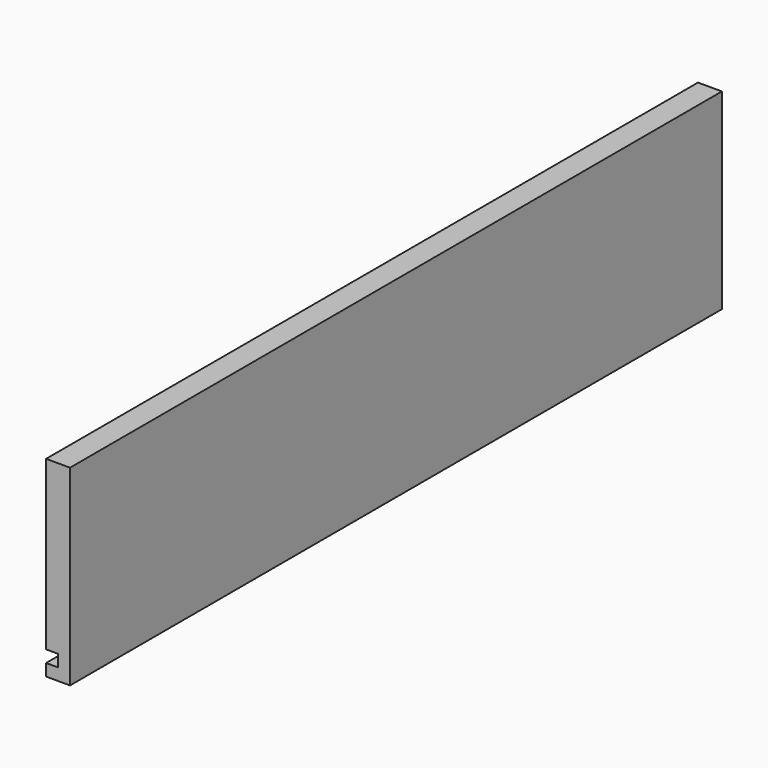
from build123d import *

# Parameters (mm, degrees)
F0_W          = 431.8
F0_H          = 101.6
F1_DEPTH      = 6.35
F2_W          = 6.35
F2_H          = 6.35
F3_DEPTH      = 215.901
F3_DEPTH_BACK = 215.901


with BuildPart() as f1:
    # F0 (on Right) → F1 (new body, symmetric)
    with BuildSketch(Plane.YZ):
        Rectangle(F0_W, F0_H)
    extrude(amount=F1_DEPTH, both=True)

    # F2 (on Front) → F3 (cut, two sides)
    with BuildSketch(Plane.XZ) as f3_sk:
        with Locations((-3.175, -41.275)):
            Rectangle(F2_W, F2_H)
    extrude(amount=-F3_DEPTH, mode=Mode.SUBTRACT)
    extrude(f3_sk.sketch, amount=F3_DEPTH_BACK, mode=Mode.SUBTRACT)


solid = f1.part
